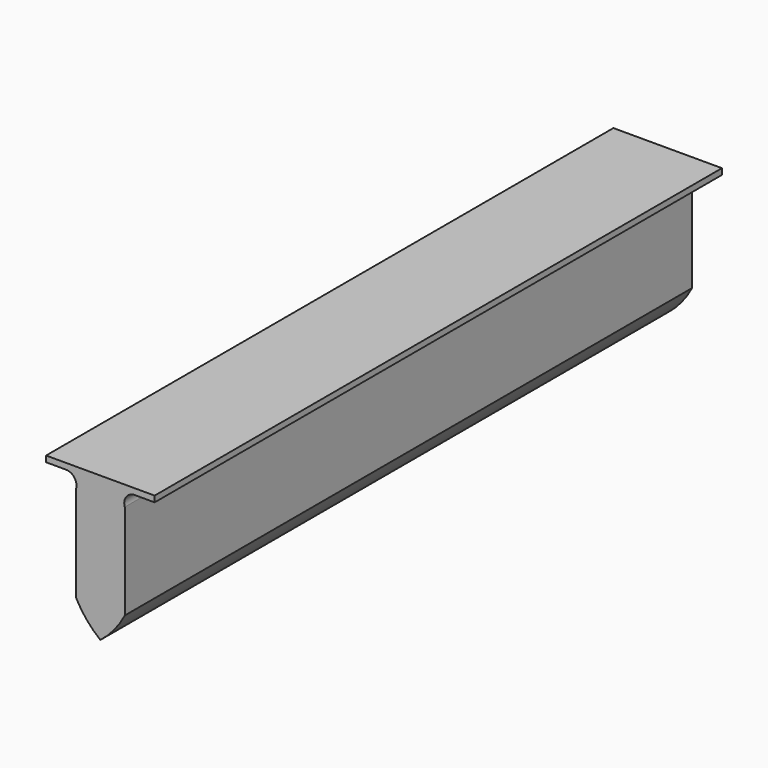
from build123d import *

# Parameters (mm, degrees)
F1_DEPTH = 248.92


with BuildPart() as f1:
    # F0 (on Front) → F1 (new body)
    with BuildSketch(Plane.XZ):
        with BuildLine():
            Line((19.05, 25.4), (-19.05, 25.4))
            Line((-19.05, 25.4), (-19.05, 23.304053))
            Line((-19.05, 23.304053), (-12.065, 23.304053))
            ThreePointArc((-12.065, 23.304053), (-9.081983, 21.781169), (-8.565863, 18.471911))
            Line((-8.565863, 18.471911), (-8.565863, -15.056089))
            ThreePointArc((-8.565863, -15.056089), (-4.841238, -20.690382), (0, -25.4))
            ThreePointArc((0, -25.4), (4.841238, -20.690382), (8.565863, -15.056089))
            Line((8.565863, -15.056089), (8.565863, 18.471911))
            ThreePointArc((8.565863, 18.471911), (9.081983, 21.781169), (12.065, 23.304053))
            Line((12.065, 23.304053), (19.05, 23.304053))
            Line((19.05, 23.304053), (19.05, 25.4))
        make_face()
    extrude(amount=F1_DEPTH)


solid = f1.part
